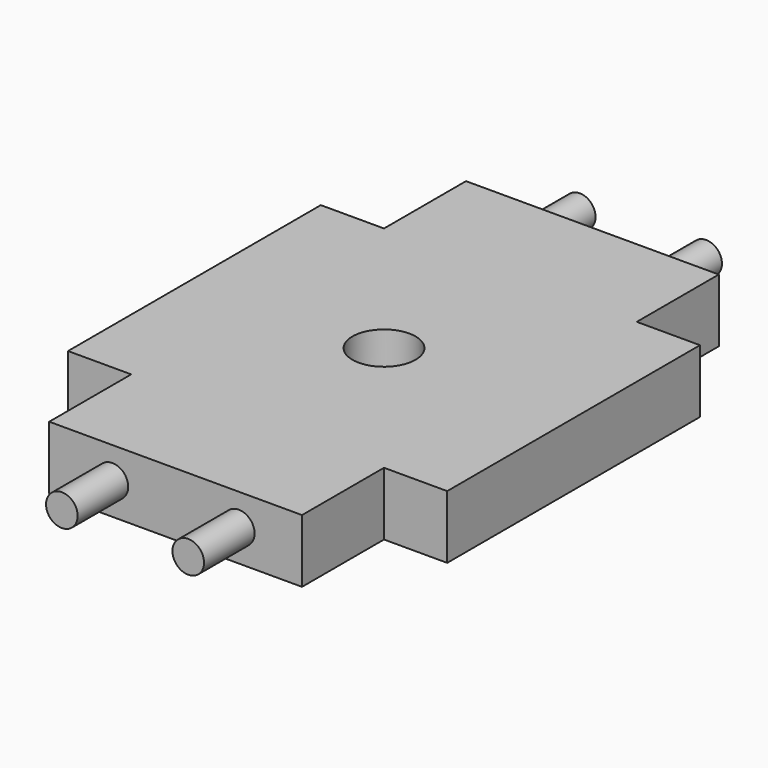
from build123d import *

# Parameters (mm, degrees)
F0_R     = 3.175
F1_DEPTH = 6.35
F2_R     = 1.5875
F3_DEPTH = 6.35
F4_DEPTH = 6.35
F5_R     = 1.5875
F6_DEPTH = 6.35
F7_DEPTH = 6.35


with BuildPart() as f1:
    # F0 (on Top) → F1 (new body)
    with BuildSketch(Plane.XY):
        Polygon((12.7, 15.875), (12.7, 26.1747), (-12.7, 26.1747), (-12.7, 15.875), (-19.05, 15.875), (-19.05, -15.875), (-12.7, -15.875), (-12.7, -26.1747), (12.7, -26.1747), (12.7, -15.875), (19.05, -15.875), (19.05, 15.875), align=None)
        Circle(F0_R, mode=Mode.SUBTRACT)
    extrude(amount=F1_DEPTH)

    # F2 (on face) → F3 (join)
    with BuildSketch(Plane(origin=(0, 26.1747, 0), x_dir=(-1, 0, 0), z_dir=(0, 1, 0))):
        with Locations((-6.35, 3.175)):
            Circle(F2_R)
    extrude(amount=F3_DEPTH)

    # F2 (on face) → F4 (join)
    with BuildSketch(Plane(origin=(0, 26.1747, 0), x_dir=(-1, 0, 0), z_dir=(0, 1, 0))):
        with Locations((6.35, 3.175)):
            Circle(F2_R)
    extrude(amount=F4_DEPTH)

    # F5 (on face) → F6 (join)
    with BuildSketch(Plane.XZ.offset(26.1747)):
        with Locations((-6.35, 3.175)):
            Circle(F5_R)
    extrude(amount=F6_DEPTH)

    # F5 (on face) → F7 (join)
    with BuildSketch(Plane.XZ.offset(26.1747)):
        with Locations((-6.35, 3.175)):
            Circle(F5_R)
        with Locations((6.35, 3.175)):
            Circle(F5_R)
    extrude(amount=F7_DEPTH)


solid = f1.part
